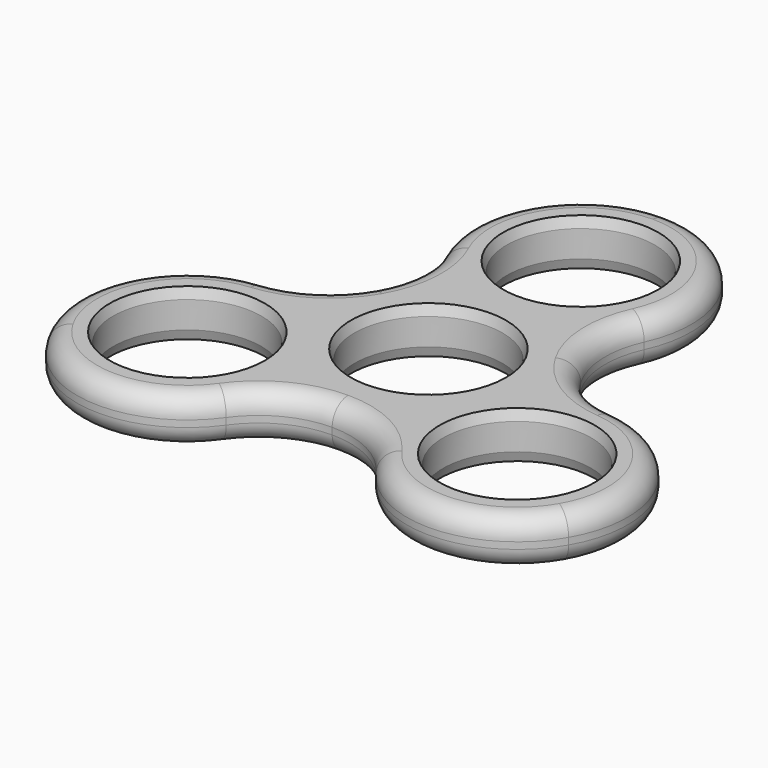
from build123d import *

# Parameters (mm, degrees)
F0_R       = 11.1
F1_DEPTH   = 7
F2_R       = 3
F3_SIZE2   = 0.5
F3_SIZE    = 1.5
F3_2_SIZE2 = 0.5
F3_2_SIZE  = 1.5
F3_3_SIZE2 = 0.5
F3_3_SIZE  = 1.5
F3_4_SIZE2 = 0.5
F3_4_SIZE  = 1.5
F4_SIZE2   = 1.5
F4_SIZE    = 0.5


with BuildPart() as f1:
    # F0 (on Top) → F1 (new body)
    with BuildSketch(Plane.XY):
        with BuildLine():
            ThreePointArc((15, 21.6098349511), (13.8933421196, 37.4049369322), (0, 45))
            ThreePointArc((0, 45), (-13.8933421196, 37.4049369322), (-15, 21.6098349511))
            ThreePointArc((-15, 21.6098349511), (-13.7614433579, 15.2333877022), (-15.5884572681, 9))
            ThreePointArc((-15.5884572681, 9), (-20.0732224147, 4.3010656895), (-26.2146660393, 2.1854635812))
            ThreePointArc((-26.2146660393, 2.1854635812), (-39.3402966701, -6.670481247), (-38.9711431703, -22.5))
            ThreePointArc((-38.9711431703, -22.5), (-25.4469545504, -30.7344556852), (-11.2146660393, -23.7952985323))
            ThreePointArc((-11.2146660393, -23.7952985323), (-6.3117790569, -19.5344533917), (0, -18))
            ThreePointArc((0, -18), (6.3117790569, -19.5344533917), (11.2146660393, -23.7952985323))
            ThreePointArc((11.2146660393, -23.7952985323), (25.4469545504, -30.7344556852), (38.9711431703, -22.5))
            ThreePointArc((38.9711431703, -22.5), (39.3402966701, -6.670481247), (26.2146660393, 2.1854635812))
            ThreePointArc((26.2146660393, 2.1854635812), (20.0732224147, 4.3010656895), (15.5884572681, 9))
            ThreePointArc((15.5884572681, 9), (13.7614433579, 15.2333877022), (15, 21.6098349511))
        make_face()
        with Locations((-24.677570255, -14.2476018297)):
            Circle(F0_R, mode=Mode.SUBTRACT)
        with Locations((24.677570255, -14.2476018297)):
            Circle(F0_R, mode=Mode.SUBTRACT)
        Circle(F0_R, mode=Mode.SUBTRACT)
        with Locations((0, 28.4952036593)):
            Circle(F0_R, mode=Mode.SUBTRACT)
    extrude(amount=F1_DEPTH)

    # F2
    f2_edges = [f1.edges().sort_by_distance(p)[0] for p in [
        (-38.971143, -22.5, 7),
        (0, -18, 7),
        (38.971143, -22.5, 7),
        (15.588457, 9, 7),
        (-38.971143, -22.5, 0),
    ]]
    fillet(f2_edges, radius=F2_R)

    # F3
    f3_edges = [f1.edges().sort_by_distance(p)[0] for p in [
        (-11.1, 28.495204, 7),
        (-11.1, 28.495204, 0),
    ]]
    f3_side = f1.faces().sort_by_distance((-11.1, 28.495204, 3.5))[0]
    chamfer(f3_edges, length=F3_SIZE, length2=F3_SIZE2, reference=f3_side)

    # F3#2
    f3_2_edges = [f1.edges().sort_by_distance(p)[0] for p in [
        (-35.77757, -14.247602, 7),
    ]]
    f3_2_side = f1.faces().sort_by_distance((-35.77757, -14.247602, 3.5))[0]
    chamfer(f3_2_edges, length=F3_2_SIZE, length2=F3_2_SIZE2, reference=f3_2_side)

    # F3#3
    f3_3_edges = [f1.edges().sort_by_distance(p)[0] for p in [
        (13.57757, -14.247602, 7),
    ]]
    f3_3_side = f1.faces().sort_by_distance((13.57757, -14.247602, 3.5))[0]
    chamfer(f3_3_edges, length=F3_3_SIZE, length2=F3_3_SIZE2, reference=f3_3_side)

    # F3#4
    f3_4_edges = [f1.edges().sort_by_distance(p)[0] for p in [
        (-11.1, 0, 7),
    ]]
    f3_4_side = f1.faces().sort_by_distance((-11.1, 0, 3.5))[0]
    chamfer(f3_4_edges, length=F3_4_SIZE, length2=F3_4_SIZE2, reference=f3_4_side)

    # F4
    f4_edges = [f1.edges().sort_by_distance(p)[0] for p in [
        (-35.77757, -14.247602, 0),
        (-11.1, 0, 0),
        (13.57757, -14.247602, 0),
    ]]
    f4_side = f1.faces().sort_by_distance((-12.634262, 28.495204, 0))[0]
    chamfer(f4_edges, length=F4_SIZE, length2=F4_SIZE2, reference=f4_side)


solid = f1.part
